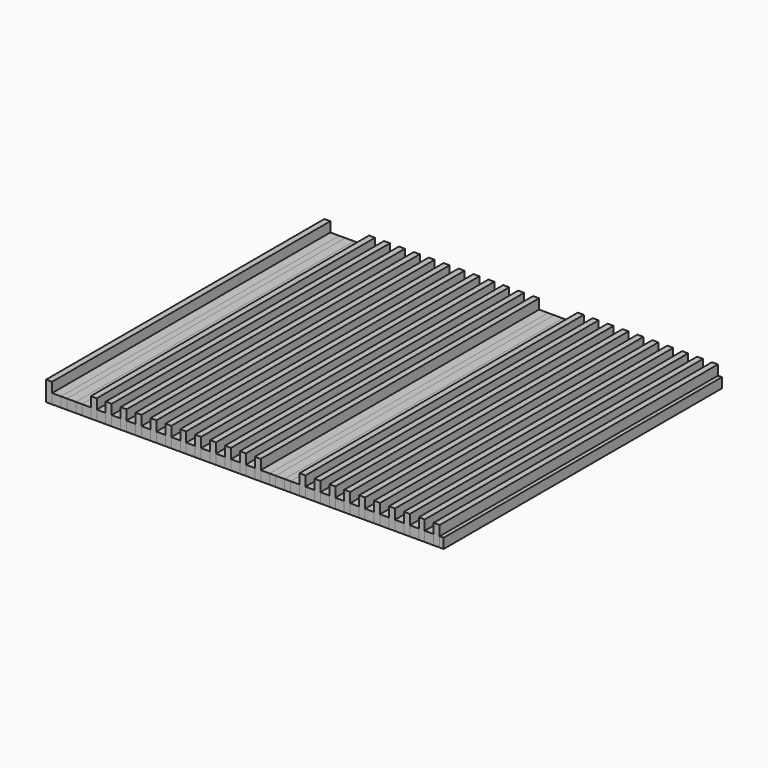
from build123d import *

# Parameters (mm, degrees)
SKETCH_W      = 80
SKETCH_H      = 70
PAD_DEPTH     = 2
BOX002_W      = 5
BOX002_H      = 70
BOX002_DEPTH  = 4
BOX001_W      = 5
BOX001_H      = 70
BOX001_DEPTH  = 4
BOX_W         = 1.2
BOX_H         = 70
BOX_DEPTH     = 4
ARRAY_X_COUNT = 27
ARRAY_X_PITCH = 3


with BuildPart() as body:
    # Sketch → Pad (new body)
    with BuildSketch(Plane.XY):
        with Locations((40, 35)):
            Rectangle(SKETCH_W, SKETCH_H)
    extrude(amount=PAD_DEPTH)


with BuildPart() as cube002:
    # Box002 → Box002 (new body)
    with BuildSketch(Plane(origin=(45, 0, 2), x_dir=(1, 0, 0), z_dir=(0, 0, 1))):
        with Locations((2.5, 35)):
            Rectangle(BOX002_W, BOX002_H)
    extrude(amount=BOX002_DEPTH)


with BuildPart() as cube001:
    # Box001 → Box001 (new body)
    with BuildSketch(Plane(origin=(3, 0, 2), x_dir=(1, 0, 0), z_dir=(0, 0, 1))):
        with Locations((2.5, 35)):
            Rectangle(BOX001_W, BOX001_H)
    extrude(amount=BOX001_DEPTH)


with BuildPart() as cut001:
    # Box → Box (new body)
    with BuildSketch(Plane.XY):
        with Locations((0.6, 35)):
            Rectangle(BOX_W, BOX_H)
    extrude(amount=BOX_DEPTH)

    # Array X: Cut001 ×27


with BuildPart() as cut001_1:
    add(cut001.part)
    with Locations(*[(i * ARRAY_X_PITCH, 0, 0) for i in range(1, ARRAY_X_COUNT)]):
        add(cut001.part)

    # Cut: cut Cube001
    add(cube001.part, mode=Mode.SUBTRACT)

    # Cut001: cut Cube002
    add(cube002.part, mode=Mode.SUBTRACT)


solid = Compound([body.part, cut001_1.part])
